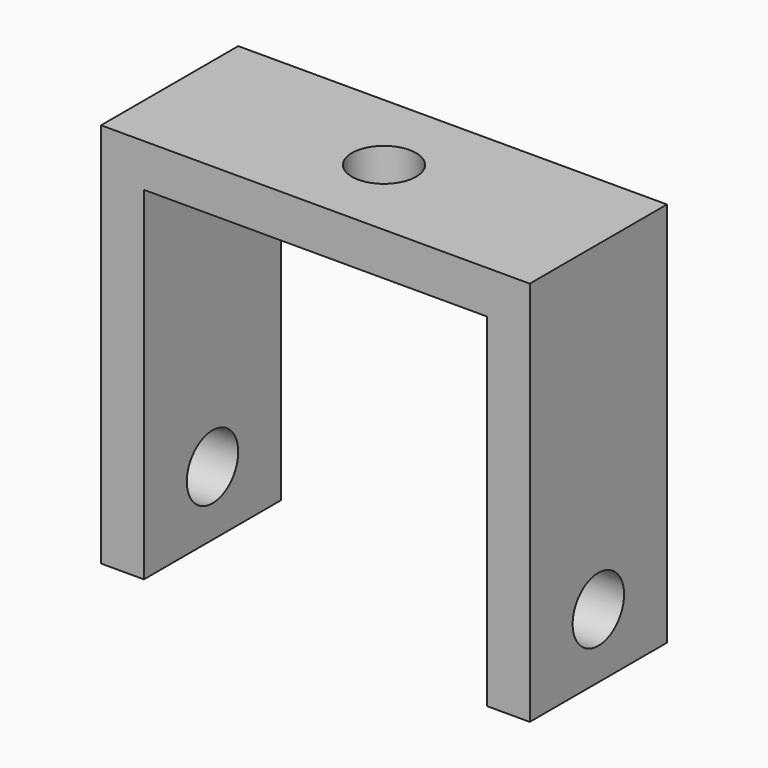
from build123d import *

# Parameters (mm, degrees)
F1_DEPTH = 50.8
F2_R     = 9.525
F3_DEPTH = 127
F4_R     = 9.525
F5_DEPTH = 12.7


with BuildPart() as f1:
    # F0 (on Front) → F1 (new body)
    with BuildSketch(Plane.XZ):
        Polygon((-12.7, 0), (0, 0), (0, 101.6), (101.6, 101.6), (101.6, 0), (114.3, 0), (114.3, 114.3), (-12.7, 114.3), align=None)
    extrude(amount=-F1_DEPTH)

    # F2 (on face) → F3 (cut)
    with BuildSketch(Plane.YZ.offset(114.3)):
        with Locations((25.4, 19.05)):
            Circle(F2_R)
    extrude(amount=-F3_DEPTH, mode=Mode.SUBTRACT)

    # F4 (on face) → F5 (cut, through all)
    with BuildSketch(Plane.XY.offset(114.3)):
        with Locations((50.8, 25.4)):
            Circle(F4_R)
    extrude(amount=-F5_DEPTH, mode=Mode.SUBTRACT)


solid = f1.part
